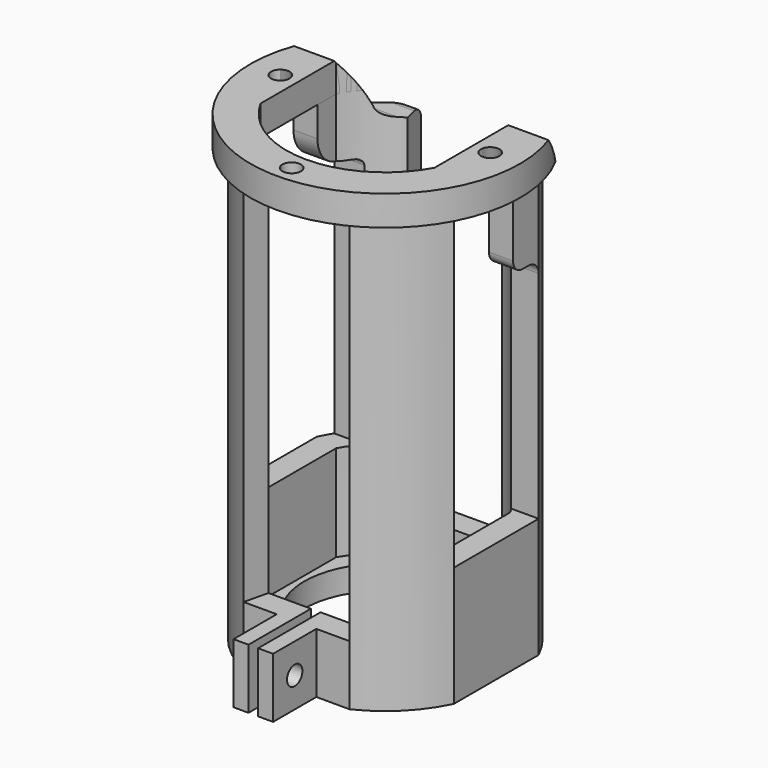
from build123d import *

# Parameters (mm, degrees)
F1_DEPTH       = 10
F3_DEPTH       = 67
F5_DEPTH       = 5
F6_R           = 1.55
F7_DEPTH       = 5
F8_R           = 13.5
F9_DEPTH       = 4
F11_DEPTH      = 20
F11_DEPTH_BACK = 10
F13_DEPTH      = 20
F13_DEPTH_BACK = 10
F15_DEPTH      = 10
F16_W          = 2.5
F16_H          = 10
F17_DEPTH      = 9
F18_R          = 1.6
F19_DEPTH      = 6.6


with BuildPart() as f1:
    # F0 (on Top) → F1 (new body)
    with BuildSketch(Plane.XY):
        with BuildLine():
            Line((8.8317608663, 18.5), (-8.8317608663, 18.5))
            ThreePointArc((-8.8317608663, 18.5), (-14.4956890143, 14.4956890143), (-18.5, 8.8317608663))
            Line((-18.5, 8.8317608663), (-18.5, -8.8317608663))
            ThreePointArc((-18.5, -8.8317608663), (-14.4956890143, -14.4956890143), (-8.8317608663, -18.5))
            Line((-8.8317608663, -18.5), (8.8317608663, -18.5))
            ThreePointArc((8.8317608663, -18.5), (14.4956890143, -14.4956890143), (18.5, -8.8317608663))
            Line((18.5, -8.8317608663), (18.5, 8.8317608663))
            ThreePointArc((18.5, 8.8317608663), (14.4956890143, 14.4956890143), (8.8317608663, 18.5))
        make_face()
        with BuildLine():
            ThreePointArc((-14.5, 7.874007874), (-11.6672618896, 11.6672618896), (-7.874007874, 14.5))
            Line((-7.874007874, 14.5), (7.874007874, 14.5))
            ThreePointArc((7.874007874, 14.5), (11.6672618896, 11.6672618896), (14.5, 7.874007874))
            Line((14.5, 7.874007874), (14.5, -7.874007874))
            ThreePointArc((14.5, -7.874007874), (11.6672618896, -11.6672618896), (7.874007874, -14.5))
            Line((7.874007874, -14.5), (-7.874007874, -14.5))
            ThreePointArc((-7.874007874, -14.5), (-11.6672618896, -11.6672618896), (-14.5, -7.874007874))
            Line((-14.5, -7.874007874), (-14.5, 7.874007874))
        make_face(mode=Mode.SUBTRACT)
    extrude(amount=F1_DEPTH)

    # F2 (on face) → F3 (join)
    with BuildSketch(Plane.XY.offset(10)):
        with BuildLine():
            Line((7.874007874, -14.5), (8.8317608663, -18.5))
            ThreePointArc((8.8317608663, -18.5), (14.4956890143, -14.4956890143), (18.5, -8.8317608663))
            Line((18.5, -8.8317608663), (18.5, 8.8317608663))
            ThreePointArc((18.5, 8.8317608663), (14.4956890143, 14.4956890143), (8.8317608663, 18.5))
            Line((8.8317608663, 18.5), (7.874007874, 14.5))
            ThreePointArc((7.874007874, 14.5), (11.6672618896, 11.6672618896), (14.5, 7.874007874))
            Line((14.5, 7.874007874), (14.5, -7.874007874))
            ThreePointArc((14.5, -7.874007874), (11.6672618896, -11.6672618896), (7.874007874, -14.5))
        make_face()
        with BuildLine():
            ThreePointArc((-18.5, -8.8317608663), (-14.4956890143, -14.4956890143), (-8.8317608663, -18.5))
            Line((-8.8317608663, -18.5), (-7.874007874, -14.5))
            ThreePointArc((-7.874007874, -14.5), (-11.6672618896, -11.6672618896), (-14.5, -7.874007874))
            Line((-14.5, -7.874007874), (-14.5, 7.874007874))
            ThreePointArc((-14.5, 7.874007874), (-11.6672618896, 11.6672618896), (-7.874007874, 14.5))
            Line((-7.874007874, 14.5), (-8.8317608663, 18.5))
            ThreePointArc((-8.8317608663, 18.5), (-14.4956890143, 14.4956890143), (-18.5, 8.8317608663))
            Line((-18.5, 8.8317608663), (-18.5, -8.8317608663))
        make_face()
    extrude(amount=F3_DEPTH)


with BuildPart() as f5:
    # F4 (on face) → F5 (new body)
    with BuildSketch(Plane.XY.offset(77)):
        with BuildLine():
            Line((12.8062484749, 18.5), (-12.8062484749, 18.5))
            ThreePointArc((-12.8062484749, 18.5), (0, -22.5), (12.8062484749, 18.5))
        make_face()
        with BuildLine():
            ThreePointArc((14.5, -7.874007874), (0, -16.5), (-14.5, -7.874007874))
            Line((-14.5, -7.874007874), (-14.5, 7.874007874))
            ThreePointArc((-14.5, 7.874007874), (0, 16.5), (14.5, 7.874007874))
            Line((14.5, 7.874007874), (14.5, -7.874007874))
        make_face(mode=Mode.SUBTRACT)
    extrude(amount=-F5_DEPTH)


with BuildPart() as f7_tool:
    # F6 (on face) → F7 (new body)
    with BuildSketch(Plane.XY.offset(77)):
        with Locations((0, -19.5)):
            Circle(F6_R)
        with Locations((17.5, 0)):
            Circle(F6_R)
        with Locations((-17.5, 0)):
            Circle(F6_R)
    extrude(amount=-F7_DEPTH)


with BuildPart() as f1_1:
    add(f1.part)

    # F7: cut by f7_tool
    add(f7_tool.part, mode=Mode.SUBTRACT)

    # F8 (on face) → F9 (join)
    with BuildSketch(Plane(origin=(0, 0, 0), x_dir=(1, 0, 0), z_dir=(0, 0, -1))):
        with BuildLine():
            ThreePointArc((-7.874007874, 14.5), (-11.6672618896, 11.6672618896), (-14.5, 7.874007874))
            Line((-14.5, 7.874007874), (-14.5, -7.874007874))
            ThreePointArc((-14.5, -7.874007874), (-11.6672618896, -11.6672618896), (-7.874007874, -14.5))
            Line((-7.874007874, -14.5), (7.874007874, -14.5))
            ThreePointArc((7.874007874, -14.5), (11.6672618896, -11.6672618896), (14.5, -7.874007874))
            Line((14.5, -7.874007874), (14.5, 7.874007874))
            ThreePointArc((14.5, 7.874007874), (11.6672618896, 11.6672618896), (7.874007874, 14.5))
            Line((7.874007874, 14.5), (-7.874007874, 14.5))
        make_face()
        Circle(F8_R, mode=Mode.SUBTRACT)
    extrude(amount=-F9_DEPTH)


with BuildPart() as f5_1:
    add(f5.part)

    # F7: cut by f7_tool
    add(f7_tool.part, mode=Mode.SUBTRACT)


with BuildPart() as f11_tool:
    # F10 (on face) → F11 (new body, two sides)
    with BuildSketch(Plane.YZ.offset(18.5)) as f11_sk:
        with BuildLine():
            Line((-8.8317608663, 72), (-8.8317608663, 20))
            Line((-8.8317608663, 20), (8.8317608663, 20))
            Line((8.8317608663, 20), (8.8317608663, 56))
            ThreePointArc((8.8317608663, 56), (8.2459744287, 57.4142135624), (6.8317608663, 58))
            Line((6.8317608663, 58), (5.5, 58))
            ThreePointArc((5.5, 58), (4.0857864376, 58.5857864376), (3.5, 60))
            Line((3.5, 60), (3.5, 72))
            Line((3.5, 72), (0, 72))
            Line((0, 72), (-8.8317608663, 72))
        make_face()
        with BuildLine():
            Line((18.5, 59), (18.5, 72))
            Line((18.5, 72), (18.5, 77))
            Line((18.5, 77), (7.5, 77))
            ThreePointArc((7.5, 77), (11.4836537107, 70.484649672), (13, 63))
            ThreePointArc((13, 63), (13.2928932188, 62.2928932188), (14, 62))
            Line((14, 62), (15.5, 62))
            ThreePointArc((15.5, 62), (17.6213203436, 61.1213203436), (18.5, 59))
        make_face()
    extrude(amount=-F11_DEPTH)
    extrude(f11_sk.sketch, amount=F11_DEPTH_BACK)


with BuildPart() as f1_2:
    add(f1_1.part)

    # F11: cut by f11_tool
    add(f11_tool.part, mode=Mode.SUBTRACT)


with BuildPart() as f5_2:
    add(f5_1.part)

    # F11: cut by f11_tool
    add(f11_tool.part, mode=Mode.SUBTRACT)


with BuildPart() as f13_tool:
    # F12 (on face) → F13 (new body, two sides)
    with BuildSketch(Plane(origin=(-18.5, 0, 0), x_dir=(0, -1, 0), z_dir=(-1, 0, 0))) as f13_sk:
        with BuildLine():
            Line((11, 72), (0, 72))
            Line((0, 72), (-4, 72))
            Line((-4, 72), (-4, 67))
            ThreePointArc((-4, 67), (-5.4644660941, 63.4644660941), (-9, 62))
            Line((-9, 62), (-10, 62))
            ThreePointArc((-10, 62), (-10.7071067812, 61.7071067812), (-11, 61))
            Line((-11, 61), (-11, 20))
            Line((-11, 20), (11, 20))
            Line((11, 20), (11, 72))
        make_face()
        with BuildLine():
            Line((-7.5, 77), (-18.5, 77))
            Line((-18.5, 77), (-18.5, 66))
            ThreePointArc((-18.5, 66), (-17.9142135624, 67.4142135624), (-16.5, 68))
            Line((-16.5, 68), (-13.8, 68))
            ThreePointArc((-13.8, 68), (-12.5035269253, 68.4771219463), (-11.8256296073, 69.6808424335))
            ThreePointArc((-11.8256296073, 69.6808424335), (-10.0197361412, 73.5513620923), (-7.5, 77))
        make_face()
    extrude(amount=-F13_DEPTH)
    extrude(f13_sk.sketch, amount=F13_DEPTH_BACK)


with BuildPart() as f1_3:
    add(f1_2.part)

    # F13: cut by f13_tool
    add(f13_tool.part, mode=Mode.SUBTRACT)

    # F14 (on face) → F15 (cut)
    with BuildSketch(Plane(origin=(0, 0, 0), x_dir=(1, 0, 0), z_dir=(0, 0, -1))):
        Polygon((-0.8, 11.8399746716), (0, 11.8399746716), (0.8, 11.8399746716), (0.8, 23.3050715178), (0, 23.3050715178), (-0.8, 23.3050715178), align=None)
    extrude(amount=-F15_DEPTH, mode=Mode.SUBTRACT)

    # F16 (on face) → F17 (join)
    with BuildSketch(Plane.XZ.offset(18.5)):
        with Locations((2.05, 5)):
            Rectangle(F16_W, F16_H)
        with Locations((-2.05, 5)):
            Rectangle(F16_W, F16_H)
    extrude(amount=F17_DEPTH)

    # F18 (on face) → F19 (cut, through all)
    with BuildSketch(Plane.YZ.offset(3.3)):
        with Locations((-23, 5)):
            Circle(F18_R)
    extrude(amount=-F19_DEPTH, mode=Mode.SUBTRACT)


with BuildPart() as f5_3:
    add(f5_2.part)

    # F13: cut by f13_tool
    add(f13_tool.part, mode=Mode.SUBTRACT)


solid = Compound([f1_3.part, f5_3.part])
